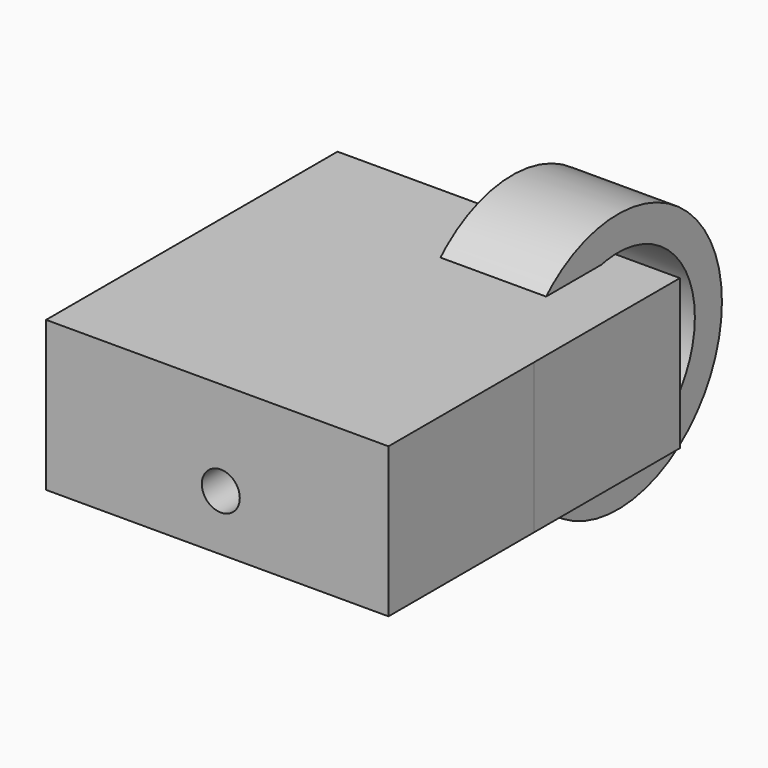
from build123d import *

# Parameters (mm, degrees)
F0_R      = 18.132989
F0_R_2    = 13.414617
F1_DEPTH  = 14.732
F2_W      = 47.745362
F2_H      = 20.8779
F2_R      = 2.646886
F3_DEPTH  = 25.4
F3_FACE_W = 47.745362
F3_FACE_H = 20.8779
F3_FACE_R = 2.646886
F4_DEPTH  = 25.4


with BuildPart() as f1:
    # F0 (on Right) → F1 (new body)
    with BuildSketch(Plane.YZ):
        Circle(F0_R)
        Circle(F0_R_2, mode=Mode.SUBTRACT)
    extrude(amount=F1_DEPTH)


with BuildPart() as f3:
    # F2 (on Front) → F3 (new body)
    with BuildSketch(Plane.XZ):
        with Locations((-0.491887, 2.652683)):
            Rectangle(F2_W, F2_H)
        Circle(F2_R, mode=Mode.SUBTRACT)
    extrude(amount=F3_DEPTH)

    # F3_face (on face) → F4 (join)
    with BuildSketch(Plane(origin=(-0.502994, -25.4, 2.712577), x_dir=(1, 0, 0), z_dir=(0, -1, 0))):
        with Locations((0.011106, -0.059894)):
            Rectangle(F3_FACE_W, F3_FACE_H)
        with Locations((0.502994, -2.712577)):
            Circle(F3_FACE_R, mode=Mode.SUBTRACT)
    extrude(amount=F4_DEPTH)


solid = Compound([f1.part, f3.part])
